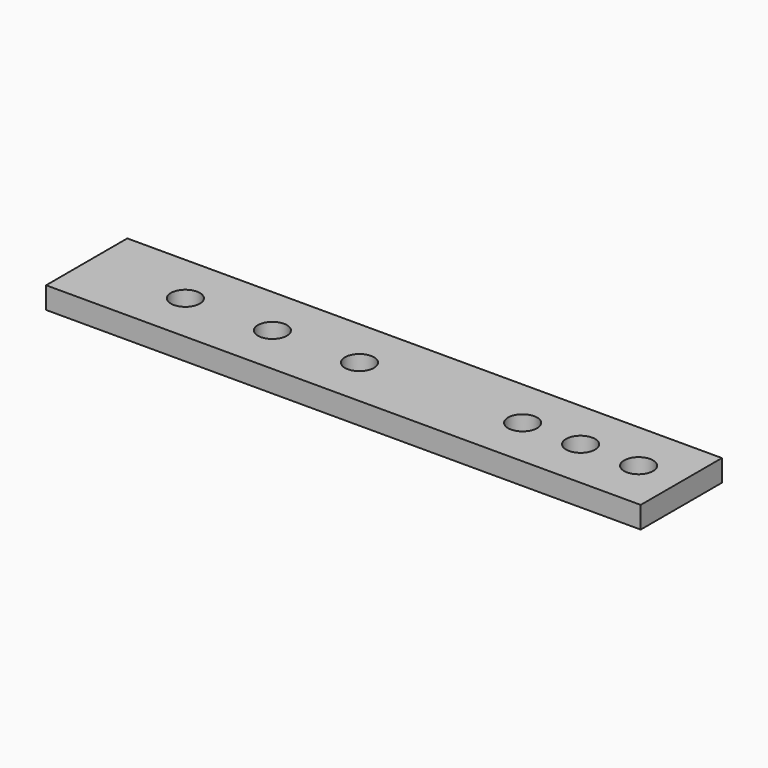
from build123d import *

# Parameters (mm, degrees)
F0_W     = 520.7
F0_H     = 88.9
F0_R     = 12.7
F1_DEPTH = 19.05


with BuildPart() as f1:
    # F0 (on Top) → F1 (new body)
    with BuildSketch(Plane.XY):
        with Locations((-3001.411803, -2580.956636)):
            Rectangle(F0_W, F0_H)
        with Locations((-3175.321132, -2580.956636)):
            Circle(F0_R, mode=Mode.SUBTRACT)
        with Locations((-3099.121132, -2580.956636)):
            Circle(F0_R, mode=Mode.SUBTRACT)
        with Locations((-3022.921132, -2580.956636)):
            Circle(F0_R, mode=Mode.SUBTRACT)
        with Locations((-2880.046132, -2580.956636)):
            Circle(F0_R, mode=Mode.SUBTRACT)
        with Locations((-2829.246132, -2580.956636)):
            Circle(F0_R, mode=Mode.SUBTRACT)
        with Locations((-2778.446132, -2580.956636)):
            Circle(F0_R, mode=Mode.SUBTRACT)
    extrude(amount=F1_DEPTH)


solid = f1.part
